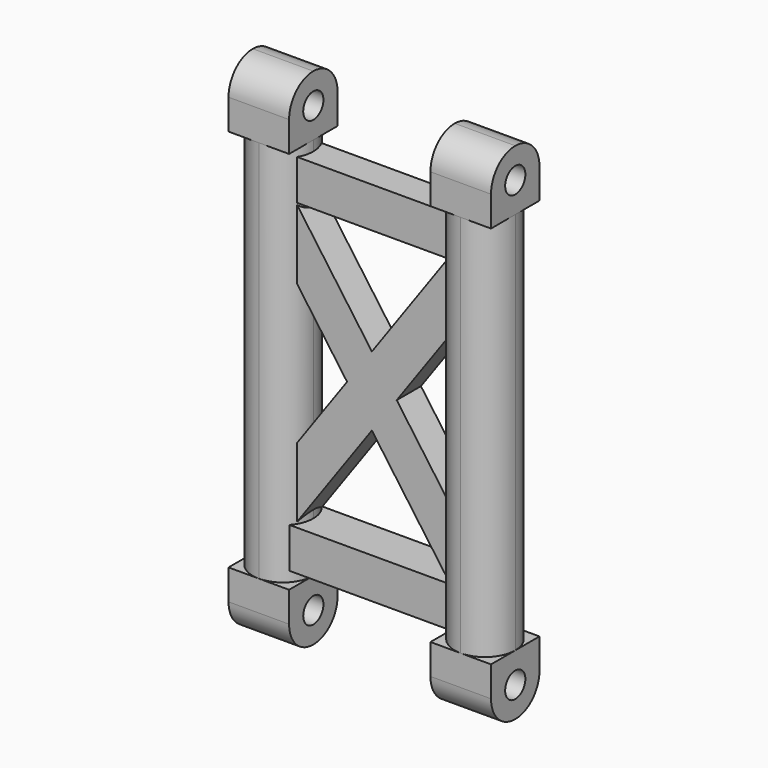
from build123d import *

# Parameters (mm, degrees)
F0_R      = 1.25
F1_DEPTH  = 6
F2_DEPTH  = 50
F3_DEPTH  = 50
F4_R      = 1.25
F5_DEPTH  = 6
F6_R      = 1.25
F7_DEPTH  = 6
F9_DEPTH  = 2
F11_DEPTH = 1.5
F10_W     = 6
F10_H     = 6
F12_DEPTH = 6
F13_R     = 1.25
F14_DEPTH = 30


with BuildPart() as f1:
    # F0 (on Top) → F1 (new body)
    with BuildSketch(Plane.XY):
        with BuildLine():
            ThreePointArc((10, -3), (12.1213203436, -2.1213203436), (13, 0))
            ThreePointArc((13, 0), (12.1213203436, 2.1213203436), (10, 3))
            ThreePointArc((10, 3), (7.8786796564, 2.1213203436), (7, 0))
            ThreePointArc((7, 0), (7.8786796564, -2.1213203436), (10, -3))
        make_face()
        with Locations((10, 0)):
            Circle(F0_R, mode=Mode.SUBTRACT)
        with BuildLine():
            ThreePointArc((7, 0), (7.8786796564, 2.1213203436), (10, 3))
            Line((10, 3), (7, 3))
            Line((7, 3), (7, 0))
        make_face()
        with BuildLine():
            Line((7, -3), (10, -3))
            ThreePointArc((10, -3), (7.8786796564, -2.1213203436), (7, 0))
            Line((7, 0), (7, -3))
        make_face()
        with BuildLine():
            Line((13, -3), (13, 0))
            ThreePointArc((13, 0), (12.1213203436, -2.1213203436), (10, -3))
            Line((10, -3), (13, -3))
        make_face()
        with BuildLine():
            ThreePointArc((10, 3), (12.1213203436, 2.1213203436), (13, 0))
            Line((13, 0), (13, 3))
            Line((13, 3), (10, 3))
        make_face()
        with Locations((10, 0)):
            Circle(F0_R)
    extrude(amount=F1_DEPTH)

    # F0 (on Top) → F2 (join)
    with BuildSketch(Plane.XY):
        with BuildLine():
            ThreePointArc((10, -3), (12.1213203436, -2.1213203436), (13, 0))
            ThreePointArc((13, 0), (12.1213203436, 2.1213203436), (10, 3))
            ThreePointArc((10, 3), (7.8786796564, 2.1213203436), (7, 0))
            ThreePointArc((7, 0), (7.8786796564, -2.1213203436), (10, -3))
        make_face()
        with Locations((10, 0)):
            Circle(F0_R, mode=Mode.SUBTRACT)
    extrude(amount=F2_DEPTH)

    # F4 (on face) → F5 (cut)
    with BuildSketch(Plane.YZ.offset(13)):
        with Locations((0, 3)):
            Circle(F4_R)
        with BuildLine():
            Line((-3, 0), (0, 0))
            ThreePointArc((0, 0), (-2.1213203436, 0.8786796564), (-3, 3))
            Line((-3, 3), (-3, 0))
        make_face()
        with BuildLine():
            Line((3, 0), (3, 3))
            ThreePointArc((3, 3), (2.1213203436, 0.8786796564), (0, 0))
            Line((0, 0), (3, 0))
        make_face()
    extrude(amount=-F5_DEPTH, mode=Mode.SUBTRACT)



with BuildPart() as f1b:
    # F0 (on Top) → F1, piece 2 (new body)
    with BuildSketch(Plane.XY):
        with BuildLine():
            ThreePointArc((-10, 3), (-7.8786796564, 2.1213203436), (-7, 0))
            Line((-7, 0), (-7, 3))
            Line((-7, 3), (-10, 3))
        make_face()
        with BuildLine():
            ThreePointArc((-13, 0), (-12.1213203436, 2.1213203436), (-10, 3))
            Line((-10, 3), (-13, 3))
            Line((-13, 3), (-13, 0))
        make_face()
        with BuildLine():
            ThreePointArc((-10, -3), (-7.8786796564, -2.1213203436), (-7, 0))
            ThreePointArc((-7, 0), (-7.8786796564, 2.1213203436), (-10, 3))
            ThreePointArc((-10, 3), (-12.1213203436, 2.1213203436), (-13, 0))
            ThreePointArc((-13, 0), (-12.1213203436, -2.1213203436), (-10, -3))
        make_face()
        with Locations((-10, 0)):
            Circle(F0_R, mode=Mode.SUBTRACT)
        with BuildLine():
            Line((-13, -3), (-10, -3))
            ThreePointArc((-10, -3), (-12.1213203436, -2.1213203436), (-13, 0))
            Line((-13, 0), (-13, -3))
        make_face()
        with BuildLine():
            Line((-7, -3), (-7, 0))
            ThreePointArc((-7, 0), (-7.8786796564, -2.1213203436), (-10, -3))
            Line((-10, -3), (-7, -3))
        make_face()
        with Locations((-10, 0)):
            Circle(F0_R)
    extrude(amount=F1_DEPTH)

    # F0 (on Top) → F3 (join)
    with BuildSketch(Plane.XY):
        with BuildLine():
            ThreePointArc((-10, -3), (-7.8786796564, -2.1213203436), (-7, 0))
            ThreePointArc((-7, 0), (-7.8786796564, 2.1213203436), (-10, 3))
            ThreePointArc((-10, 3), (-12.1213203436, 2.1213203436), (-13, 0))
            ThreePointArc((-13, 0), (-12.1213203436, -2.1213203436), (-10, -3))
        make_face()
        with Locations((-10, 0)):
            Circle(F0_R, mode=Mode.SUBTRACT)
    extrude(amount=F3_DEPTH)

    # F6 (on face) → F7 (cut)
    with BuildSketch(Plane(origin=(-13, 0, 0), x_dir=(0, -1, 0), z_dir=(-1, 0, 0))):
        with Locations((0, 3)):
            Circle(F6_R)
        with BuildLine():
            Line((-3, 0), (0, 0))
            ThreePointArc((0, 0), (-2.1213203436, 0.8786796564), (-3, 3))
            Line((-3, 3), (-3, 0))
        make_face()
        with BuildLine():
            Line((3, 0), (3, 3))
            ThreePointArc((3, 3), (2.1213203436, 0.8786796564), (0, 0))
            Line((0, 0), (3, 0))
        make_face()
    extrude(amount=-F7_DEPTH, mode=Mode.SUBTRACT)


with BuildPart() as f9:
    # F8 (on Front) → F9 (new body, symmetric)
    with BuildSketch(Plane.XZ):
        Polygon((-10, 7), (10, 7), (10, 11), (7.5421927808, 11), (-7.5421927808, 11), (-10, 11), align=None)
    extrude(amount=F9_DEPTH, both=True)


with BuildPart() as f1_1:
    add(f1.part)

    add(f1b.part)  # F11 merges F1b

    add(f9.part)  # F11 merges F9
    # F8 (on Front) → F11 (join, symmetric)
    with BuildSketch(Plane.XZ):
        Polygon((-10, 39), (-10, 35.5590698932), (-2.4578072192, 25), (0, 28.4409301068), (-7.5421927808, 39), align=None)
        Polygon((-2.4578072192, 25), (0, 21.5590698932), (2.4578072192, 25), (0, 28.4409301068), align=None)
        Polygon((7.5421927808, 11), (10, 11), (10, 14.4409301068), (2.4578072192, 25), (0, 21.5590698932), align=None)
        Polygon((-10, 14.4409301068), (-10, 11), (-7.5421927808, 11), (0, 21.5590698932), (-2.4578072192, 25), align=None)
        Polygon((2.4578072192, 25), (10, 35.5590698932), (10, 39), (7.5421927808, 39), (0, 28.4409301068), align=None)
        Polygon((7.5421927808, 39), (10, 39), (10, 43), (-10, 43), (-10, 39), (-7.5421927808, 39), align=None)
    extrude(amount=F11_DEPTH, both=True)

    # F10 (on face) → F12 (join)
    with BuildSketch(Plane.XY.offset(50)):
        with Locations((-10, 0)):
            Rectangle(F10_W, F10_H)
        with Locations((10, 0)):
            Rectangle(F10_W, F10_H)
    extrude(amount=-F12_DEPTH)

    # F13 (on face) → F14 (cut)
    with BuildSketch(Plane.YZ.offset(13)):
        with Locations((0, 47)):
            Circle(F13_R)
        with BuildLine():
            Line((-3, 50), (-3, 47))
            ThreePointArc((-3, 47), (-2.1213203436, 49.1213203436), (0, 50))
            Line((0, 50), (-3, 50))
        make_face()
        with BuildLine():
            ThreePointArc((0, 50), (2.1213203436, 49.1213203436), (3, 47))
            Line((3, 47), (3, 50))
            Line((3, 50), (0, 50))
        make_face()
    extrude(amount=-F14_DEPTH, mode=Mode.SUBTRACT)


solid = f1_1.part
